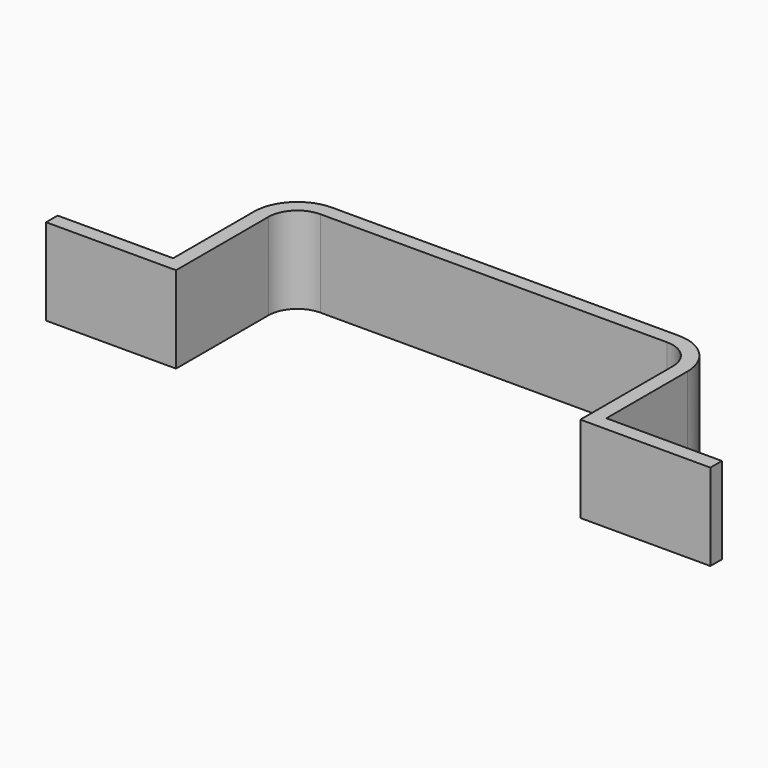
from build123d import *

# Parameters (mm, degrees)
F0_W     = 25.4
F0_H     = 3.175
F1_DEPTH = 19.05


with BuildPart() as f1:
    # F0 (on Top) → F1 (new body)
    with BuildSketch(Plane.XY):
        with BuildLine():
            Line((-38.1, -1.5875), (-38.1, 1.5875))
            ThreePointArc((-38.1, 1.5875), (-44.835192, -1.202308), (-47.625, -7.9375))
            Line((-47.625, -7.9375), (-44.45, -7.9375))
            ThreePointArc((-44.45, -7.9375), (-42.590128, -3.447372), (-38.1, -1.5875))
        make_face()
        with BuildLine():
            Line((-44.45, -7.9375), (-47.625, -7.9375))
            ThreePointArc((-47.625, -7.9375), (-46.795096, -11.826065), (-44.45, -15.037016))
            Line((-44.45, -15.037016), (-44.45, -7.9375))
        make_face()
        with BuildLine():
            ThreePointArc((-44.45, -15.037016), (-46.795096, -11.826065), (-47.625, -7.9375))
            Line((-47.625, -7.9375), (-47.625, -30.1625))
            Line((-47.625, -30.1625), (-47.625, -33.3375))
            Line((-47.625, -33.3375), (-44.45, -33.3375))
            Line((-44.45, -33.3375), (-44.45, -15.037016))
        make_face()
        with Locations((-60.325, -31.75)):
            Rectangle(F0_W, F0_H)
        with BuildLine():
            ThreePointArc((-31.000484, -1.5875), (-34.211435, 0.757596), (-38.1, 1.5875))
            Line((-38.1, 1.5875), (-38.1, -1.5875))
            Line((-38.1, -1.5875), (-31.000484, -1.5875))
        make_face()
        with BuildLine():
            Line((0, 1.5875), (-38.1, 1.5875))
            ThreePointArc((-38.1, 1.5875), (-34.211435, 0.757596), (-31.000484, -1.5875))
            Line((-31.000484, -1.5875), (0, -1.5875))
            Line((0, -1.5875), (0, 1.5875))
        make_face()
        with BuildLine():
            Line((38.1, 1.5875), (0, 1.5875))
            Line((0, 1.5875), (0, -1.5875))
            Line((0, -1.5875), (31.000484, -1.5875))
            ThreePointArc((31.000484, -1.5875), (34.211435, 0.757596), (38.1, 1.5875))
        make_face()
        with BuildLine():
            Line((38.1, -1.5875), (38.1, 1.5875))
            ThreePointArc((38.1, 1.5875), (34.211435, 0.757596), (31.000484, -1.5875))
            Line((31.000484, -1.5875), (38.1, -1.5875))
        make_face()
        with BuildLine():
            ThreePointArc((47.625, -7.9375), (44.835192, -1.202308), (38.1, 1.5875))
            Line((38.1, 1.5875), (38.1, -1.5875))
            ThreePointArc((38.1, -1.5875), (42.590128, -3.447372), (44.45, -7.9375))
            Line((44.45, -7.9375), (47.625, -7.9375))
        make_face()
        with BuildLine():
            ThreePointArc((44.45, -15.037016), (46.795096, -11.826065), (47.625, -7.9375))
            Line((47.625, -7.9375), (44.45, -7.9375))
            Line((44.45, -7.9375), (44.45, -15.037016))
        make_face()
        with BuildLine():
            Line((47.625, -30.1625), (47.625, -7.9375))
            ThreePointArc((47.625, -7.9375), (46.795096, -11.826065), (44.45, -15.037016))
            Line((44.45, -15.037016), (44.45, -33.3375))
            Line((44.45, -33.3375), (47.625, -33.3375))
            Line((47.625, -33.3375), (47.625, -30.1625))
        make_face()
        with Locations((60.325, -31.75)):
            Rectangle(F0_W, F0_H)
    extrude(amount=F1_DEPTH)


solid = f1.part
